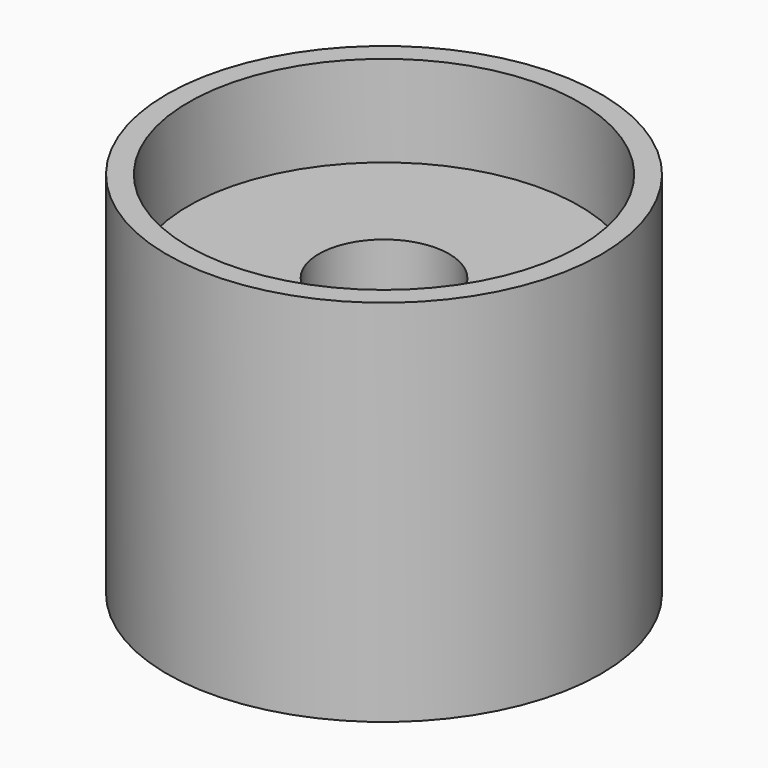
from build123d import *

# Parameters (mm, degrees)
SKETCH019_R             = 10
PAD019_DEPTH            = 17
SKETCH020_R             = 9
POCKET_DEPTH            = 4.2
SKETCH021_R             = 3
POCKET001_DEPTH         = 11.8
BODY009_PLACEMENT_ANGLE = 180


with BuildPart() as part:
    # Sketch019 → Pad019 (new body)
    with BuildSketch(Plane.XY):
        Circle(SKETCH019_R)
    extrude(amount=PAD019_DEPTH)

    # Sketch020 (on Face2 of Pad019) → Pocket (cut)
    with BuildSketch(Plane(origin=(0, 0, 0), x_dir=(1, 0, 0), z_dir=(0, 0, -1))):
        Circle(SKETCH020_R)
    extrude(amount=-POCKET_DEPTH, mode=Mode.SUBTRACT)

    # Sketch021 (on Face5 of Pocket) → Pocket001 (cut)
    with BuildSketch(Plane(origin=(0, 0, 4.2), x_dir=(1, 0, 0), z_dir=(0, 0, -1))):
        Circle(SKETCH021_R)
    extrude(amount=-POCKET001_DEPTH, mode=Mode.SUBTRACT)


with BuildPart() as part_1:
    # Body009 placement: moved
    add(part.part.moved(Location((-5, 7, -16.4))).rotate(Axis((-5, 7, -16.4), (1, 0, 0)), BODY009_PLACEMENT_ANGLE))


solid = part_1.part
